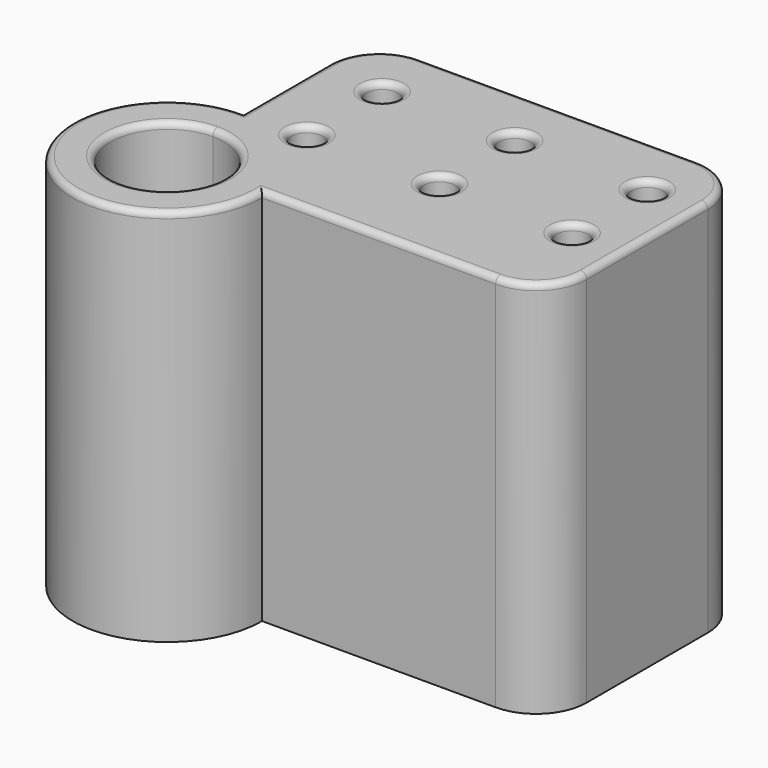
from build123d import *

# Parameters (mm, degrees)
F0_R     = 2.5
F1_DEPTH = 60
F2_R     = 1


with BuildPart() as f1:
    # F0 (on Top) → F1 (new body)
    with BuildSketch(Plane.XY):
        with BuildLine():
            ThreePointArc((0, 15), (-10.606602, -10.606602), (15, 0))
            Line((15, 0), (52, 0))
            ThreePointArc((52, 0), (57.656854, 2.343146), (60, 8))
            Line((60, 8), (60, 25.12332))
            Line((60, 25.12332), (60, 32))
            ThreePointArc((60, 32), (57.656854, 37.656854), (52, 40))
            Line((52, 40), (50, 40))
            Line((50, 40), (29, 40))
            Line((29, 40), (8, 40))
            ThreePointArc((8, 40), (2.343146, 37.656854), (0, 32))
            Line((0, 32), (0, 17.12332))
            Line((0, 17.12332), (0, 15))
        make_face()
        with BuildLine():
            ThreePointArc((9, 0), (-6.363961, -6.363961), (0, 9))
            ThreePointArc((0, 9), (6.363961, 6.363961), (9, 0))
        make_face(mode=Mode.SUBTRACT)
        with Locations((10, 15.12332)):
            Circle(F0_R, mode=Mode.SUBTRACT)
        with Locations((10, 30)):
            Circle(F0_R, mode=Mode.SUBTRACT)
        with Locations((31, 15.12332)):
            Circle(F0_R, mode=Mode.SUBTRACT)
        with Locations((52, 15.12332)):
            Circle(F0_R, mode=Mode.SUBTRACT)
        with Locations((31, 30)):
            Circle(F0_R, mode=Mode.SUBTRACT)
        with Locations((52, 30)):
            Circle(F0_R, mode=Mode.SUBTRACT)
    extrude(amount=F1_DEPTH)

    # F2
    f2_edges = [f1.edges().sort_by_distance(p)[0] for p in [
        (-10.606602, -10.606602, 60),
        (33.5, 0, 60),
        (57.656854, 2.343146, 60),
        (60, 20, 60),
        (57.656854, 37.656854, 60),
        (30, 40, 60),
        (2.343146, 37.656854, 60),
        (0, 23.5, 60),
        (0, -9, 60),
        (7.5, 15.12332, 60),
        (7.5, 30, 60),
        (28.5, 15.12332, 60),
        (49.5, 15.12332, 60),
        (28.5, 30, 60),
        (49.5, 30, 60),
    ]]
    fillet(f2_edges, radius=F2_R)


solid = f1.part
